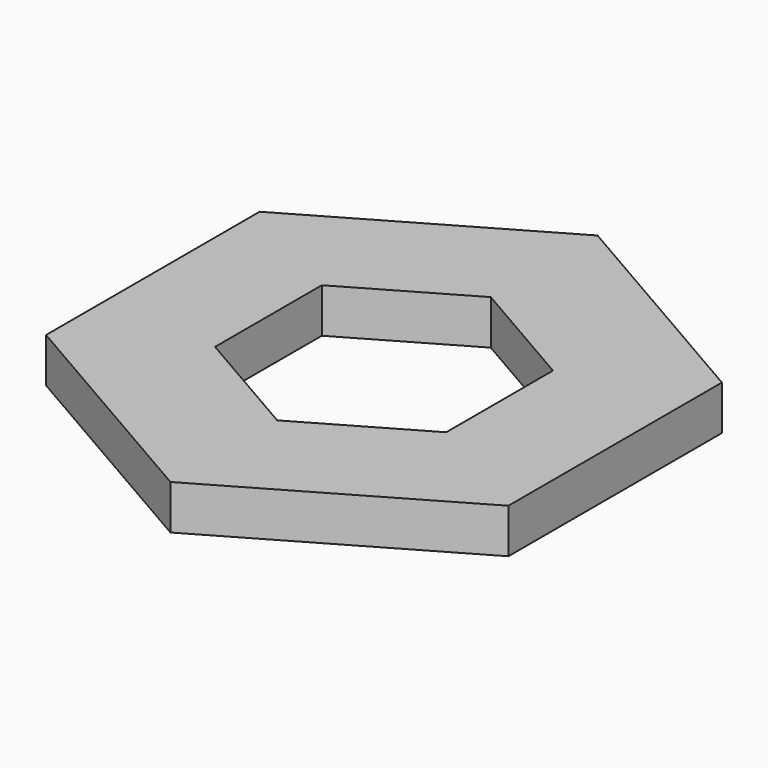
from build123d import *

# Parameters (mm, degrees)
F1_DEPTH = 2.5


with BuildPart() as f1:
    # F0 (on Top) → F1 (new body, symmetric)
    with BuildSketch(Plane.XY):
        Polygon((0, 30), (-25.980762, 15), (-25.980762, -15), (0, -30), (25.980762, -15), (25.980762, 15), align=None)
        Polygon((-12.990381, -7.5), (-12.990381, 7.5), (0, 15), (12.990381, 7.5), (12.990381, -7.5), (0, -15), align=None, mode=Mode.SUBTRACT)
    extrude(amount=F1_DEPTH, both=True)


solid = f1.part
